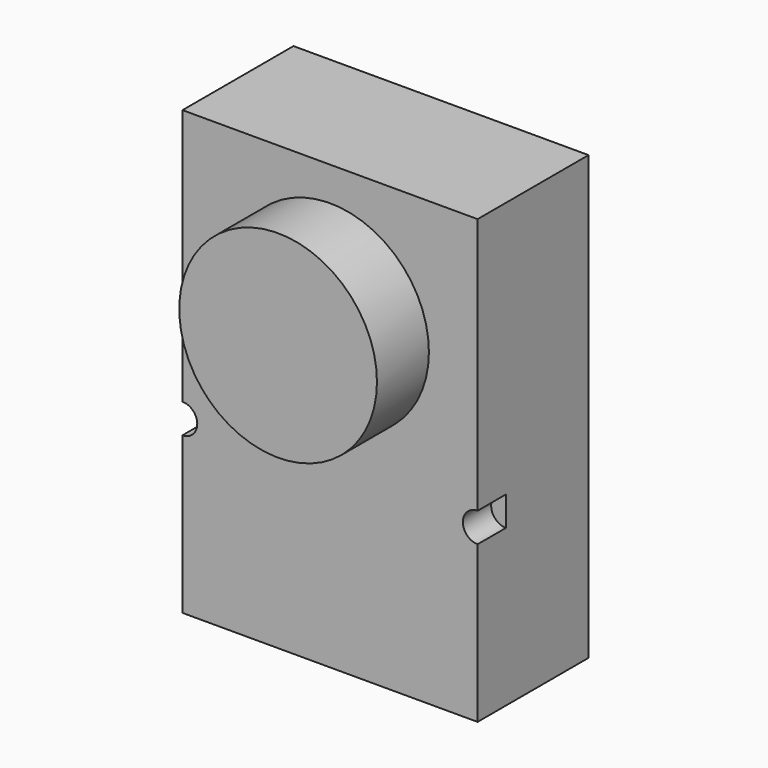
from build123d import *

# Parameters (mm, degrees)
F0_W     = 100
F0_H     = 150
F1_DEPTH = 47
F2_R     = 33.5
F3_DEPTH = 22
F4_R     = 5
F5_DEPTH = 12


with BuildPart() as f1:
    # F0 (on Front) → F1 (new body)
    with BuildSketch(Plane.XZ):
        Rectangle(F0_W, F0_H)
    extrude(amount=F1_DEPTH)

    # F2 (on face) → F3 (join)
    with BuildSketch(Plane.XZ.offset(47)):
        with Locations((0, 30)):
            Circle(F2_R)
    extrude(amount=F3_DEPTH)

    # F4 (on face) → F5 (cut)
    with BuildSketch(Plane.XZ.offset(47)):
        with Locations((50, -17)):
            Circle(F4_R)
        with Locations((-50, -17)):
            Circle(F4_R)
    extrude(amount=-F5_DEPTH, mode=Mode.SUBTRACT)


solid = f1.part
